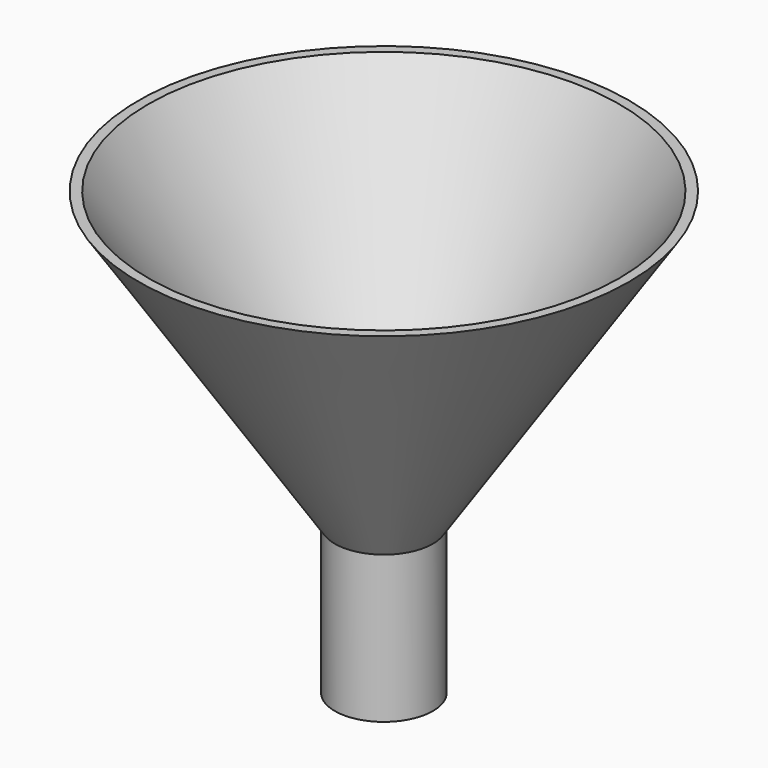
from build123d import *

# Parameters (mm, degrees)
CYLINDER001_R     = 4
CYLINDER001_DEPTH = 15
CYLINDER_R        = 5
CYLINDER_DEPTH    = 15


with BuildPart() as con001:
    # Cone001 → Cone001 (revolve)
    with BuildSketch(Plane.XZ):
        Polygon((0, 0), (4, 0), (24, 30), (0, 30), align=None)
    revolve(axis=Axis((0, 0, 0), (0, 0, 1)))


with BuildPart() as cut001:
    # Cone → Cone (revolve)
    with BuildSketch(Plane.XZ):
        Polygon((0, 0), (5, 0), (25, 30), (0, 30), align=None)
    revolve(axis=Axis((0, 0, 0), (0, 0, 1)))

    # Cut001: cut Con001
    add(con001.part, mode=Mode.SUBTRACT)


with BuildPart() as cut001_1:
    # Cut001 placement: moved
    add(cut001.part.moved(Location((0, 0, 15))))


with BuildPart() as cilindre001:
    # Cylinder001 → Cylinder001 (new body)
    with BuildSketch(Plane.XY):
        Circle(CYLINDER001_R)
    extrude(amount=CYLINDER001_DEPTH)


with BuildPart() as fusion:
    # Cylinder → Cylinder (new body)
    with BuildSketch(Plane.XY):
        Circle(CYLINDER_R)
    extrude(amount=CYLINDER_DEPTH)

    # Cut: cut Cilindre001
    add(cilindre001.part, mode=Mode.SUBTRACT)

    # Fusion: union Cut001
    add(cut001_1.part)


solid = fusion.part
